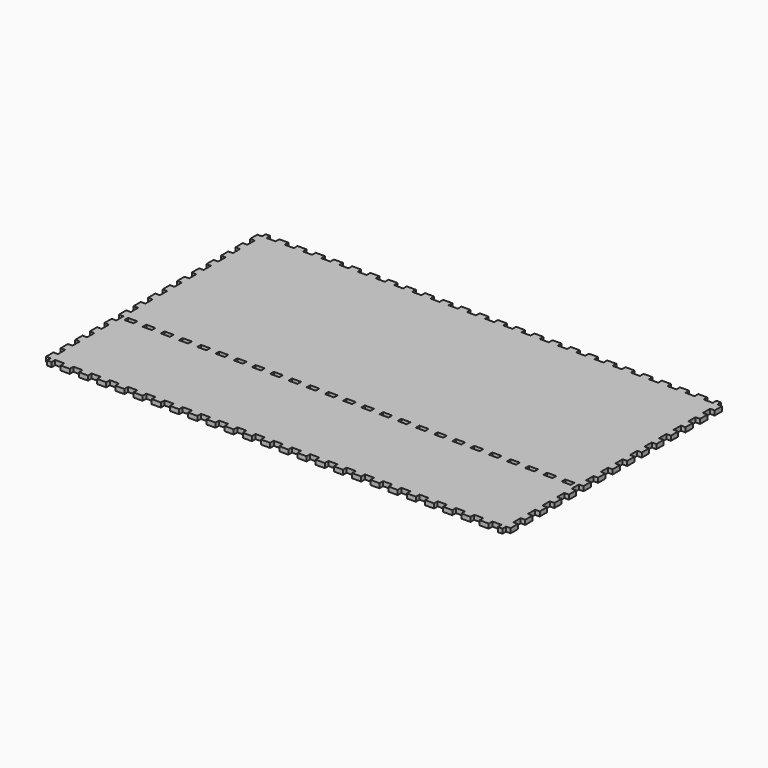
from build123d import *

# Parameters (mm, degrees)
SKETCH_W               = 500
SKETCH_H               = 300
PAD_DEPTH              = 5
SKETCH020_W            = 10
SKETCH020_H            = 5
PAD018_DEPTH           = 5
LINEARPATTERN_COUNT    = 15
LINEARPATTERN_PITCH    = 20
SKETCH021_W            = 10
SKETCH021_H            = 5
PAD019_DEPTH           = 5
LINEARPATTERN001_COUNT = 15
LINEARPATTERN001_PITCH = 20
SKETCH121_W            = 10
SKETCH121_H            = 5
POCKET031_DEPTH        = 5
LINEARPATTERN073_COUNT = 25
LINEARPATTERN073_PITCH = 20


with BuildPart() as part:
    # Sketch → Pad (new body)
    with BuildSketch(Plane.XY):
        Rectangle(SKETCH_W, SKETCH_H)
    extrude(amount=PAD_DEPTH)

    # Sketch020 (on DatumPlane) → Pad018 (join)
    with BuildSketch(Plane.YZ.offset(250)):
        with Locations((-140, 2.5)):
            Rectangle(SKETCH020_W, SKETCH020_H)
    pad018 = extrude(amount=PAD018_DEPTH)

    # LinearPattern: Pad018 ×15
    with Locations(*[(0, i * LINEARPATTERN_PITCH, 0) for i in range(1, LINEARPATTERN_COUNT)]):
        add(pad018)

    # Sketch021 (on DatumPlane) → Pad019 (join)
    with BuildSketch(Plane(origin=(-250, 0, 0), x_dir=(0, -1, 0), z_dir=(-1, 0, 0))):
        with Locations((-140, 2.5)):
            Rectangle(SKETCH021_W, SKETCH021_H)
    pad019 = extrude(amount=PAD019_DEPTH)

    # LinearPattern001: Pad019 ×15
    with Locations(*[(0, -i * LINEARPATTERN001_PITCH, 0) for i in range(1, LINEARPATTERN001_COUNT)]):
        add(pad019)

    # Sketch121 (on DatumPlane) → Pocket031 (cut)
    with BuildSketch(Plane(origin=(0, 0, 0), x_dir=(-1, 0, 0), z_dir=(0, 0, -1))):
        with Locations((-240, -47.5)):
            Rectangle(SKETCH121_W, SKETCH121_H)
        with Locations((-240, 147.5)):
            Rectangle(SKETCH121_W, SKETCH121_H)
        with Locations((-240, -147.5)):
            Rectangle(SKETCH121_W, SKETCH121_H)
    pocket031 = extrude(amount=-POCKET031_DEPTH, mode=Mode.SUBTRACT)

    # LinearPattern073: Pocket031 ×25
    with Locations(*[(-i * LINEARPATTERN073_PITCH, 0, 0) for i in range(1, LINEARPATTERN073_COUNT)]):
        add(pocket031, mode=Mode.SUBTRACT)


solid = part.part
